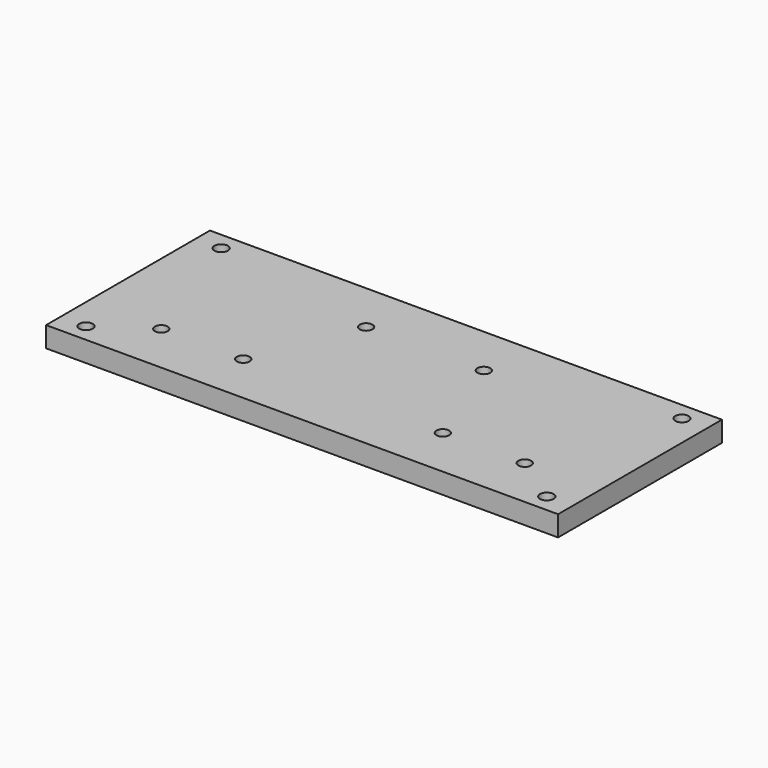
from build123d import *

# Parameters (mm, degrees)
SKETCH_W   = 80
SKETCH_H   = 200
SKETCH_R   = 2.5
SKETCH_R_2 = 2.625
PAD_DEPTH  = 8


with BuildPart() as part:
    # Sketch → Pad (new body)
    with BuildSketch(Plane(origin=(0, 0, 0), x_dir=(0, 1, 0), z_dir=(0, 0, 1))):
        Rectangle(SKETCH_W, SKETCH_H)
        with Locations((20, 23)):
            Circle(SKETCH_R, mode=Mode.SUBTRACT)
        with Locations((20, -23)):
            Circle(SKETCH_R, mode=Mode.SUBTRACT)
        with Locations((-20, 39)):
            Circle(SKETCH_R, mode=Mode.SUBTRACT)
        with Locations((-20, -39)):
            Circle(SKETCH_R, mode=Mode.SUBTRACT)
        with Locations((-20, 71)):
            Circle(SKETCH_R, mode=Mode.SUBTRACT)
        with Locations((-20, -71)):
            Circle(SKETCH_R, mode=Mode.SUBTRACT)
        with Locations((-33, 90)):
            Circle(SKETCH_R_2, mode=Mode.SUBTRACT)
        with Locations((33, 90)):
            Circle(SKETCH_R_2, mode=Mode.SUBTRACT)
        with Locations((-33, -90)):
            Circle(SKETCH_R_2, mode=Mode.SUBTRACT)
        with Locations((33, -90)):
            Circle(SKETCH_R_2, mode=Mode.SUBTRACT)
    extrude(amount=PAD_DEPTH)


solid = part.part
